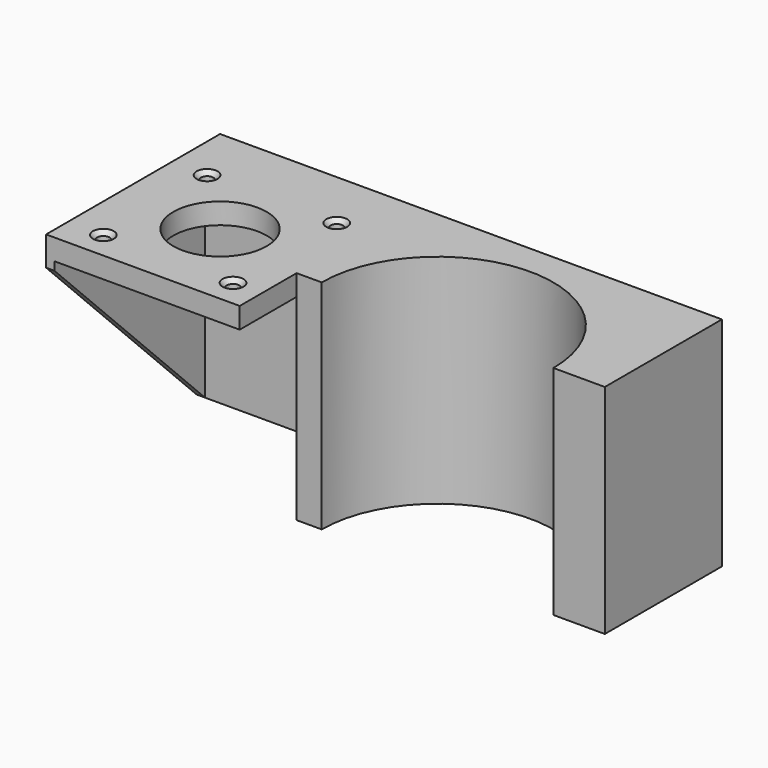
from build123d import *

# Parameters (mm, degrees)
F0_R           = 11.15
F1_DEPTH       = 52
F2_D           = 3
F2_CSINK_D     = 5
F2_CSINK_ANGLE = 90
F3_W           = 44.3
F3_H           = 47
F4_DEPTH       = 45
F5_SIZE        = 45


with BuildPart() as f1:
    # F0 (on Top) → F1 (new body)
    with BuildSketch(Plane.XY):
        with BuildLine():
            Line((60, -4.2347954512), (60, 30.7652045488))
            Line((60, 30.7652045488), (-60, 30.7652045488))
            Line((-60, 30.7652045488), (-60, -21.2347954512))
            Line((-60, -21.2347954512), (-13.7, -21.2347954512))
            Line((-13.7, -21.2347954512), (-13.7, -4.2347954512))
            Line((-13.7, -4.2347954512), (-7.7, -4.2347954512))
            ThreePointArc((-7.7, -4.2347954512), (20, 23.4652045488), (47.7, -4.2347954512))
            Line((47.7, -4.2347954512), (60, -4.2347954512))
        make_face()
        with Locations((-36, 0.7652045488)):
            Circle(F0_R, mode=Mode.SUBTRACT)
    extrude(amount=-F1_DEPTH)

    # F2 (through all)
    with Locations(Plane.XY):
        with Locations((-51.5, 16.2652045488), (-20.5, 16.2652045488), (-51.5, -14.7347954512), (-20.5, -14.7347954512)):
            CounterSinkHole(F2_D / 2, F2_CSINK_D / 2, counter_sink_angle=F2_CSINK_ANGLE)

    # F3 (on face) → F4 (cut)
    with BuildSketch(Plane.XZ.offset(21.2347954512)):
        with Locations((-35.85, -28.5)):
            Rectangle(F3_W, F3_H)
    extrude(amount=-F4_DEPTH, mode=Mode.SUBTRACT)

    # F5
    f5_edges = [f1.edges().sort_by_distance(p)[0] for p in [
        (-59, -21.234795, -52),
    ]]
    chamfer(f5_edges, length=F5_SIZE)


solid = f1.part
